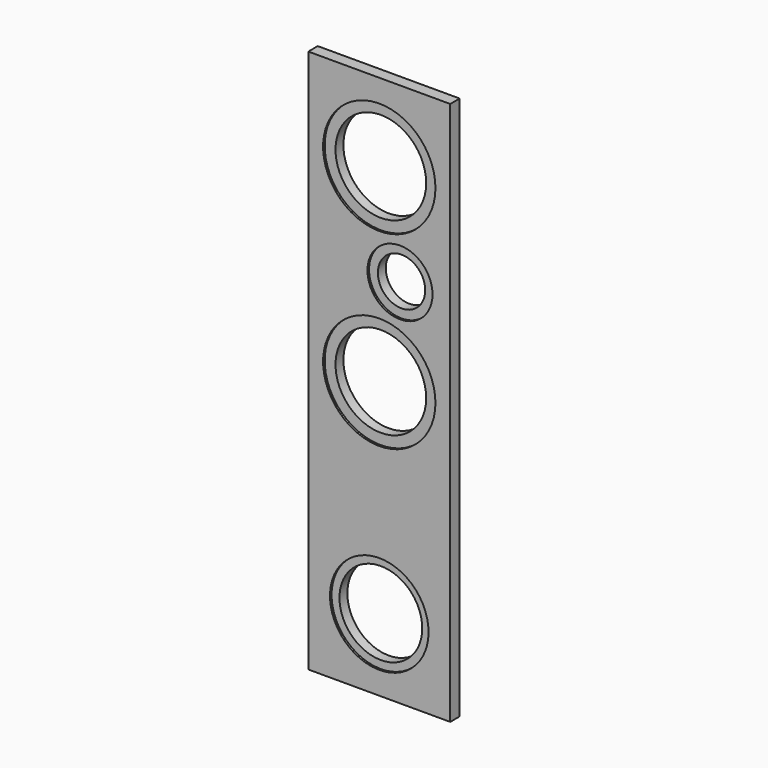
from build123d import *

# Parameters (mm, degrees)
F0_W     = 228.6
F0_H     = 876.3
F0_R     = 79.375
F0_R_2   = 90.4875
F0_R_3   = 52.3875
F0_R_4   = 73.025
F0_R_5   = 38.1
F0_R_6   = 66.675
F1_DEPTH = 19.05
F2_DEPTH = 3.175


with BuildPart() as f1:
    # F0 (on Front) → F1 (new body)
    with BuildSketch(Plane.XZ):
        with Locations((0, 476.25)):
            Rectangle(F0_W, F0_H)
        with Locations((0, 153.9875)):
            Circle(F0_R, mode=Mode.SUBTRACT)
        with Locations((0, 482.6)):
            Circle(F0_R_2, mode=Mode.SUBTRACT)
        with Locations((33.3502, 635)):
            Circle(F0_R_3, mode=Mode.SUBTRACT)
        with Locations((0, 787.4)):
            Circle(F0_R_2, mode=Mode.SUBTRACT)
        with Locations((0, 787.4)):
            Circle(F0_R_2)
        with Locations((0, 787.4)):
            Circle(F0_R_4, mode=Mode.SUBTRACT)
        with Locations((33.3502, 635)):
            Circle(F0_R_3)
        with Locations((33.3502, 635)):
            Circle(F0_R_5, mode=Mode.SUBTRACT)
        with Locations((0, 482.6)):
            Circle(F0_R_2)
        with Locations((0, 482.6)):
            Circle(F0_R_4, mode=Mode.SUBTRACT)
        with Locations((0, 153.9875)):
            Circle(F0_R)
        with Locations((0, 153.9875)):
            Circle(F0_R_6, mode=Mode.SUBTRACT)
    extrude(amount=-F1_DEPTH)

    # F0 (on Front) → F2 (cut)
    with BuildSketch(Plane.XZ):
        with Locations((0, 787.4)):
            Circle(F0_R_2)
        with Locations((0, 787.4)):
            Circle(F0_R_4, mode=Mode.SUBTRACT)
        with Locations((33.3502, 635)):
            Circle(F0_R_3)
        with Locations((33.3502, 635)):
            Circle(F0_R_5, mode=Mode.SUBTRACT)
        with Locations((0, 482.6)):
            Circle(F0_R_2)
        with Locations((0, 482.6)):
            Circle(F0_R_4, mode=Mode.SUBTRACT)
        with Locations((0, 153.9875)):
            Circle(F0_R)
        with Locations((0, 153.9875)):
            Circle(F0_R_6, mode=Mode.SUBTRACT)
    extrude(amount=-F2_DEPTH, mode=Mode.SUBTRACT)


solid = f1.part
